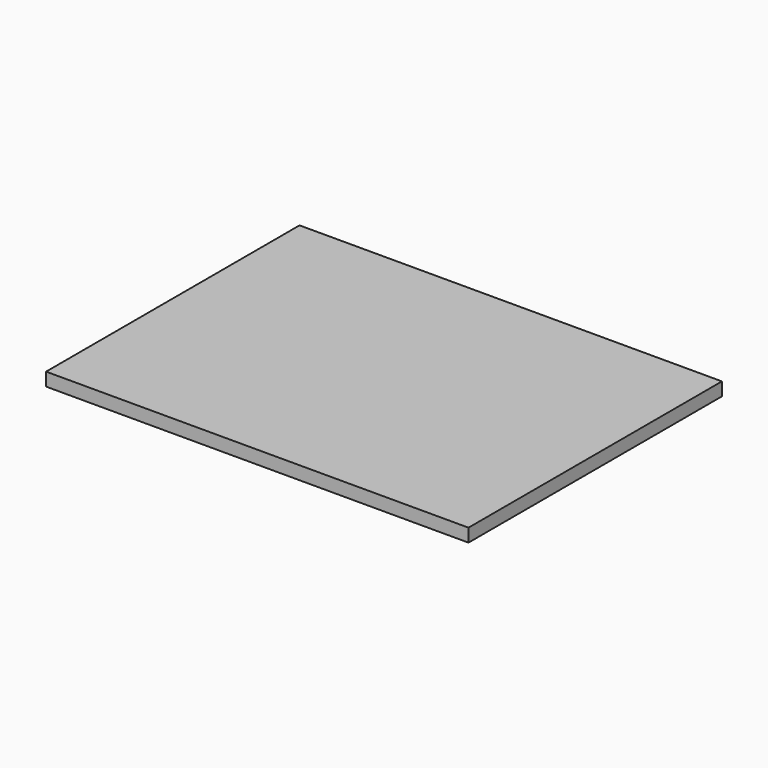
from build123d import *

# Parameters (mm, degrees)
F0_W     = 609.6
F0_H     = 457.2
F1_DEPTH = 19.05


with BuildPart() as f1:
    # F0 (on Top) → F1 (new body)
    with BuildSketch(Plane.XY):
        Rectangle(F0_W, F0_H)
    extrude(amount=-F1_DEPTH)

    # F3 (on offset) → F4 (revolve, cut)
    with BuildSketch(Plane.YZ.offset(177.8)):
        with BuildLine():
            ThreePointArc((458.59371, -51.746861), (229.952203, -25.736593), (0, -17.05))
            Line((0, -17.05), (0, -3065.05))
            Line((0, -3065.05), (458.59371, -51.746861))
        make_face()
    revolve(axis=Axis((177.8, 0, -1541.05), (0, 0, -1)), mode=Mode.SUBTRACT)


solid = f1.part
